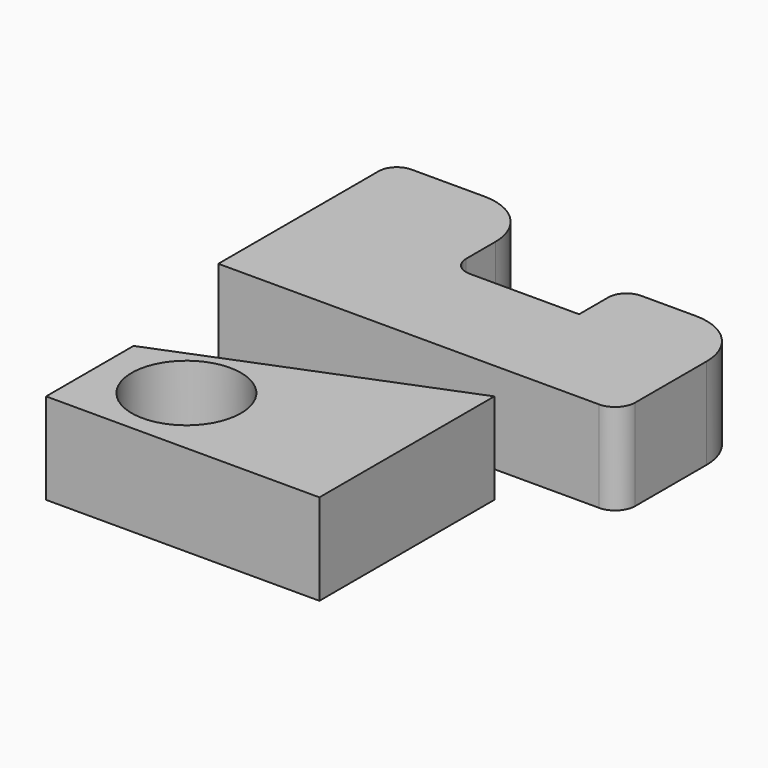
from build123d import *

# Parameters (mm, degrees)
F0_R     = 15
F1_DEPTH = 25


with BuildPart() as f1:
    # F0 (on Top) → F1 (new body)
    with BuildSketch(Plane.XY):
        with BuildLine():
            Line((-52.657656, 57.389982), (-52.657656, 2.389982))
            Line((-52.657656, 2.389982), (51.842344, 2.389982))
            ThreePointArc((51.842344, 2.389982), (55.731431, 4.000894), (57.342344, 7.889982))
            Line((57.342344, 7.889982), (57.342344, 32.389982))
            ThreePointArc((57.342344, 32.389982), (52.948945, 42.996583), (42.342344, 47.389982))
            Line((42.342344, 47.389982), (27.342344, 47.389982))
            ThreePointArc((27.342344, 47.389982), (23.80681, 45.925515), (22.342344, 42.389982))
            Line((22.342344, 42.389982), (22.342344, 32.389982))
            Line((22.342344, 32.389982), (-7.657656, 32.389982))
            ThreePointArc((-7.657656, 32.389982), (-11.19319, 33.854448), (-12.657656, 37.389982))
            Line((-12.657656, 37.389982), (-12.657656, 47.389982))
            ThreePointArc((-12.657656, 47.389982), (-17.051055, 57.996583), (-27.657656, 62.389982))
            Line((-27.657656, 62.389982), (-47.657656, 62.389982))
            ThreePointArc((-47.657656, 62.389982), (-51.19319, 60.925515), (-52.657656, 57.389982))
        make_face()
        Polygon((-43.031711, -38.719946), (-43.031711, -68.719946), (31.968289, -68.719946), (31.968289, -8.719946), align=None)
        with Locations((-20.531711, -48.719946)):
            Circle(F0_R, mode=Mode.SUBTRACT)
    extrude(amount=F1_DEPTH)


solid = f1.part
